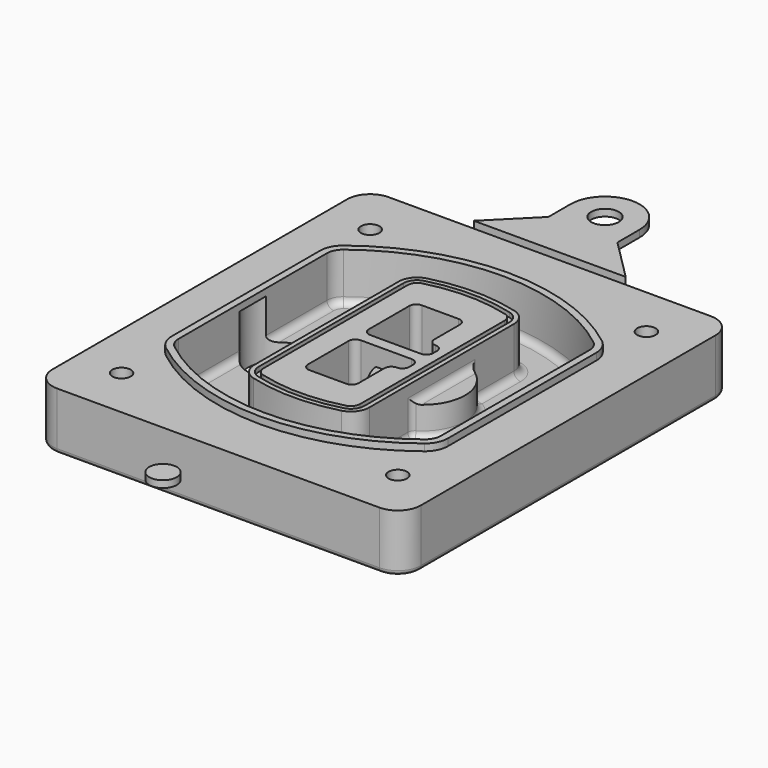
from build123d import *

# Parameters (mm, degrees)
F0_R      = 4
F1_DEPTH  = 25
F2_DEPTH  = 3
F3_DEPTH  = 18
F5_DEPTH  = 21
F6_DEPTH  = 2
F8_DEPTH  = 20
F9_DEPTH  = 16
F10_DEPTH = 25
F7_R      = 6
F7_R_2    = 4
F11_DEPTH = 6
F13_DEPTH = 9
F14_R     = 3
F15_R     = 2
F16_R     = 6
F17_DEPTH = 3


with BuildPart() as f1:
    # F0 (on Top) → F1 (new body)
    with BuildSketch(Plane.XY):
        with BuildLine():
            ThreePointArc((-80, -80), (-77.0710678119, -87.0710678119), (-70, -90))
            Line((-70, -90), (70, -90))
            ThreePointArc((70, -90), (77.0710678119, -87.0710678119), (80, -80))
            Line((80, -80), (80, 80))
            ThreePointArc((80, 80), (77.0710678119, 87.0710678119), (70, 90))
            Line((70, 90), (-70, 90))
            ThreePointArc((-70, 90), (-77.0710678119, 87.0710678119), (-80, 80))
            Line((-80, 80), (-80, -80))
        make_face()
        with Locations((-60, -67.5)):
            Circle(F0_R, mode=Mode.SUBTRACT)
        with Locations((60, -67.5)):
            Circle(F0_R, mode=Mode.SUBTRACT)
        with Locations((-60, 67.5)):
            Circle(F0_R, mode=Mode.SUBTRACT)
        with BuildLine():
            ThreePointArc((-64, 40.2934422872), (-62.5820384798, 46.4328484224), (-58.6153846154, 51.3286200352))
            ThreePointArc((-58.6153846154, 51.3286200352), (0, 71.5), (58.6153846154, 51.3286200352))
            ThreePointArc((58.6153846154, 51.3286200352), (62.5820384798, 46.4328484224), (64, 40.2934422872))
            Line((64, 40.2934422872), (64, -40.2934422872))
            ThreePointArc((64, -40.2934422872), (62.5820384798, -46.4328484224), (58.6153846154, -51.3286200352))
            ThreePointArc((58.6153846154, -51.3286200352), (0, -71.5), (-58.6153846154, -51.3286200352))
            ThreePointArc((-58.6153846154, -51.3286200352), (-62.5820384798, -46.4328484224), (-64, -40.2934422872))
            Line((-64, -40.2934422872), (-64, 40.2934422872))
        make_face(mode=Mode.SUBTRACT)
        with Locations((60, 67.5)):
            Circle(F0_R, mode=Mode.SUBTRACT)
        with BuildLine():
            ThreePointArc((58.6153846154, 51.3286200352), (0, 71.5), (-58.6153846154, 51.3286200352))
            ThreePointArc((-58.6153846154, 51.3286200352), (-62.5820384798, 46.4328484224), (-64, 40.2934422872))
            Line((-64, 40.2934422872), (-64, -40.2934422872))
            ThreePointArc((-64, -40.2934422872), (-62.5820384798, -46.4328484224), (-58.6153846154, -51.3286200352))
            ThreePointArc((-58.6153846154, -51.3286200352), (0, -71.5), (58.6153846154, -51.3286200352))
            ThreePointArc((58.6153846154, -51.3286200352), (62.5820384798, -46.4328484224), (64, -40.2934422872))
            Line((64, -40.2934422872), (64, 40.2934422872))
            ThreePointArc((64, 40.2934422872), (62.5820384798, 46.4328484224), (58.6153846154, 51.3286200352))
        make_face()
        with BuildLine():
            Line((-60, -40.2934422872), (-60, 40.2934422872))
            ThreePointArc((-60, 40.2934422872), (-58.9871703427, 44.6787323838), (-56.1538461538, 48.1757121072))
            ThreePointArc((-56.1538461538, 48.1757121072), (0, 67.5), (56.1538461538, 48.1757121072))
            ThreePointArc((56.1538461538, 48.1757121072), (58.9871703427, 44.6787323838), (60, 40.2934422872))
            Line((60, 40.2934422872), (60, -40.2934422872))
            ThreePointArc((60, -40.2934422872), (58.9871703427, -44.6787323838), (56.1538461538, -48.1757121072))
            ThreePointArc((56.1538461538, -48.1757121072), (0, -67.5), (-56.1538461538, -48.1757121072))
            ThreePointArc((-56.1538461538, -48.1757121072), (-58.9871703427, -44.6787323838), (-60, -40.2934422872))
        make_face(mode=Mode.SUBTRACT)
        with BuildLine():
            ThreePointArc((-56.1538461538, 48.1757121072), (-58.9871703427, 44.6787323838), (-60, 40.2934422872))
            Line((-60, 40.2934422872), (-60, -40.2934422872))
            ThreePointArc((-60, -40.2934422872), (-58.9871703427, -44.6787323838), (-56.1538461538, -48.1757121072))
            ThreePointArc((-56.1538461538, -48.1757121072), (0, -67.5), (56.1538461538, -48.1757121072))
            ThreePointArc((56.1538461538, -48.1757121072), (58.9871703427, -44.6787323838), (60, -40.2934422872))
            Line((60, -40.2934422872), (60, 40.2934422872))
            ThreePointArc((60, 40.2934422872), (58.9871703427, 44.6787323838), (56.1538461538, 48.1757121072))
            ThreePointArc((56.1538461538, 48.1757121072), (0, 67.5), (-56.1538461538, 48.1757121072))
        make_face()
        with BuildLine():
            ThreePointArc((54.3076923077, 45.8110311612), (56.2910192399, 43.3631453548), (57, 40.2934422872))
            Line((57, 40.2934422872), (57, -40.2934422872))
            ThreePointArc((57, -40.2934422872), (56.2910192399, -43.3631453548), (54.3076923077, -45.8110311612))
            ThreePointArc((54.3076923077, -45.8110311612), (0, -64.5), (-54.3076923077, -45.8110311612))
            ThreePointArc((-54.3076923077, -45.8110311612), (-56.2910192399, -43.3631453548), (-57, -40.2934422872))
            Line((-57, -40.2934422872), (-57, 40.2934422872))
            ThreePointArc((-57, 40.2934422872), (-56.2910192399, 43.3631453548), (-54.3076923077, 45.8110311612))
            ThreePointArc((-54.3076923077, 45.8110311612), (0, 64.5), (54.3076923077, 45.8110311612))
        make_face(mode=Mode.SUBTRACT)
        with BuildLine():
            Line((57, -40.2934422872), (57, 40.2934422872))
            ThreePointArc((57, 40.2934422872), (56.2910192399, 43.3631453548), (54.3076923077, 45.8110311612))
            ThreePointArc((54.3076923077, 45.8110311612), (0, 64.5), (-54.3076923077, 45.8110311612))
            ThreePointArc((-54.3076923077, 45.8110311612), (-56.2910192399, 43.3631453548), (-57, 40.2934422872))
            Line((-57, 40.2934422872), (-57, -40.2934422872))
            ThreePointArc((-57, -40.2934422872), (-56.2910192399, -43.3631453548), (-54.3076923077, -45.8110311612))
            ThreePointArc((-54.3076923077, -45.8110311612), (0, -64.5), (54.3076923077, -45.8110311612))
            ThreePointArc((54.3076923077, -45.8110311612), (56.2910192399, -43.3631453548), (57, -40.2934422872))
        make_face()
    extrude(amount=-F1_DEPTH)

    # F0 (on Top) → F2 (join)
    with BuildSketch(Plane.XY):
        with BuildLine():
            ThreePointArc((-56.1538461538, 48.1757121072), (-58.9871703427, 44.6787323838), (-60, 40.2934422872))
            Line((-60, 40.2934422872), (-60, -40.2934422872))
            ThreePointArc((-60, -40.2934422872), (-58.9871703427, -44.6787323838), (-56.1538461538, -48.1757121072))
            ThreePointArc((-56.1538461538, -48.1757121072), (0, -67.5), (56.1538461538, -48.1757121072))
            ThreePointArc((56.1538461538, -48.1757121072), (58.9871703427, -44.6787323838), (60, -40.2934422872))
            Line((60, -40.2934422872), (60, 40.2934422872))
            ThreePointArc((60, 40.2934422872), (58.9871703427, 44.6787323838), (56.1538461538, 48.1757121072))
            ThreePointArc((56.1538461538, 48.1757121072), (0, 67.5), (-56.1538461538, 48.1757121072))
        make_face()
        with BuildLine():
            ThreePointArc((54.3076923077, 45.8110311612), (56.2910192399, 43.3631453548), (57, 40.2934422872))
            Line((57, 40.2934422872), (57, -40.2934422872))
            ThreePointArc((57, -40.2934422872), (56.2910192399, -43.3631453548), (54.3076923077, -45.8110311612))
            ThreePointArc((54.3076923077, -45.8110311612), (0, -64.5), (-54.3076923077, -45.8110311612))
            ThreePointArc((-54.3076923077, -45.8110311612), (-56.2910192399, -43.3631453548), (-57, -40.2934422872))
            Line((-57, -40.2934422872), (-57, 40.2934422872))
            ThreePointArc((-57, 40.2934422872), (-56.2910192399, 43.3631453548), (-54.3076923077, 45.8110311612))
            ThreePointArc((-54.3076923077, 45.8110311612), (0, 64.5), (54.3076923077, 45.8110311612))
        make_face(mode=Mode.SUBTRACT)
    extrude(amount=F2_DEPTH)

    # F0 (on Top) → F3 (cut)
    with BuildSketch(Plane.XY):
        with BuildLine():
            Line((57, -40.2934422872), (57, 40.2934422872))
            ThreePointArc((57, 40.2934422872), (56.2910192399, 43.3631453548), (54.3076923077, 45.8110311612))
            ThreePointArc((54.3076923077, 45.8110311612), (0, 64.5), (-54.3076923077, 45.8110311612))
            ThreePointArc((-54.3076923077, 45.8110311612), (-56.2910192399, 43.3631453548), (-57, 40.2934422872))
            Line((-57, 40.2934422872), (-57, -40.2934422872))
            ThreePointArc((-57, -40.2934422872), (-56.2910192399, -43.3631453548), (-54.3076923077, -45.8110311612))
            ThreePointArc((-54.3076923077, -45.8110311612), (0, -64.5), (54.3076923077, -45.8110311612))
            ThreePointArc((54.3076923077, -45.8110311612), (56.2910192399, -43.3631453548), (57, -40.2934422872))
        make_face()
    extrude(amount=-F3_DEPTH, mode=Mode.SUBTRACT)

    # F4 (on face) → F5 (join, through all)
    with BuildSketch(Plane.XY.offset(3)):
        with BuildLine():
            ThreePointArc((-25, -39.2465276821), (-23.3511545998, -44.1109737193), (-19.0842911877, -46.9702398883))
            ThreePointArc((-19.0842911877, -46.9702398883), (0, -49.5), (19.0842911877, -46.9702398883))
            ThreePointArc((19.0842911877, -46.9702398883), (23.3511545998, -44.1109737193), (25, -39.2465276821))
            Line((25, -39.2465276821), (25, 39.2465276821))
            ThreePointArc((25, 39.2465276821), (23.3511545998, 44.1109737193), (19.0842911877, 46.9702398883))
            ThreePointArc((19.0842911877, 46.9702398883), (0, 49.5), (-19.0842911877, 46.9702398883))
            ThreePointArc((-19.0842911877, 46.9702398883), (-23.3511545998, 44.1109737193), (-25, 39.2465276821))
            Line((-25, 39.2465276821), (-25, -39.2465276821))
        make_face()
        with BuildLine():
            ThreePointArc((18.5632183908, 45.0393118368), (21.7633659499, 42.89486221), (23, 39.2465276821))
            Line((23, 39.2465276821), (23, -39.2465276821))
            ThreePointArc((23, -39.2465276821), (21.7633659499, -42.89486221), (18.5632183908, -45.0393118368))
            ThreePointArc((18.5632183908, -45.0393118368), (0, -47.5), (-18.5632183908, -45.0393118368))
            ThreePointArc((-18.5632183908, -45.0393118368), (-21.7633659499, -42.89486221), (-23, -39.2465276821))
            Line((-23, -39.2465276821), (-23, 39.2465276821))
            ThreePointArc((-23, 39.2465276821), (-21.7633659499, 42.89486221), (-18.5632183908, 45.0393118368))
            ThreePointArc((-18.5632183908, 45.0393118368), (0, 47.5), (18.5632183908, 45.0393118368))
        make_face(mode=Mode.SUBTRACT)
        with BuildLine():
            Line((23, -39.2465276821), (23, 39.2465276821))
            ThreePointArc((23, 39.2465276821), (21.7633659499, 42.89486221), (18.5632183908, 45.0393118368))
            ThreePointArc((18.5632183908, 45.0393118368), (0, 47.5), (-18.5632183908, 45.0393118368))
            ThreePointArc((-18.5632183908, 45.0393118368), (-21.7633659499, 42.89486221), (-23, 39.2465276821))
            Line((-23, 39.2465276821), (-23, -39.2465276821))
            ThreePointArc((-23, -39.2465276821), (-21.7633659499, -42.89486221), (-18.5632183908, -45.0393118368))
            ThreePointArc((-18.5632183908, -45.0393118368), (0, -47.5), (18.5632183908, -45.0393118368))
            ThreePointArc((18.5632183908, -45.0393118368), (21.7633659499, -42.89486221), (23, -39.2465276821))
        make_face()
        with BuildLine():
            ThreePointArc((18.0421455939, 43.1083837852), (20.1755772999, 41.6787507007), (21, 39.2465276821))
            Line((21, 39.2465276821), (21, -39.2465276821))
            ThreePointArc((21, -39.2465276821), (20.1755772999, -41.6787507007), (18.0421455939, -43.1083837852))
            ThreePointArc((18.0421455939, -43.1083837852), (0, -45.5), (-18.0421455939, -43.1083837852))
            ThreePointArc((-18.0421455939, -43.1083837852), (-20.1755772999, -41.6787507007), (-21, -39.2465276821))
            Line((-21, -39.2465276821), (-21, 39.2465276821))
            ThreePointArc((-21, 39.2465276821), (-20.1755772999, 41.6787507007), (-18.0421455939, 43.1083837852))
            ThreePointArc((-18.0421455939, 43.1083837852), (0, 45.5), (18.0421455939, 43.1083837852))
        make_face(mode=Mode.SUBTRACT)
        with BuildLine():
            Line((21, -39.2465276821), (21, 39.2465276821))
            ThreePointArc((21, 39.2465276821), (20.1755772999, 41.6787507007), (18.0421455939, 43.1083837852))
            ThreePointArc((18.0421455939, 43.1083837852), (0, 45.5), (-18.0421455939, 43.1083837852))
            ThreePointArc((-18.0421455939, 43.1083837852), (-20.1755772999, 41.6787507007), (-21, 39.2465276821))
            Line((-21, 39.2465276821), (-21, -39.2465276821))
            ThreePointArc((-21, -39.2465276821), (-20.1755772999, -41.6787507007), (-18.0421455939, -43.1083837852))
            ThreePointArc((-18.0421455939, -43.1083837852), (0, -45.5), (18.0421455939, -43.1083837852))
            ThreePointArc((18.0421455939, -43.1083837852), (20.1755772999, -41.6787507007), (21, -39.2465276821))
        make_face()
        with BuildLine():
            Line((-8, -2.5), (14, -2.5))
            ThreePointArc((14, -2.5), (16.1213203436, -3.3786796564), (17, -5.5))
            Line((17, -5.5), (17, -7.5))
            ThreePointArc((17, -7.5), (16.1213203436, -9.6213203436), (14, -10.5))
            ThreePointArc((14, -10.5), (11.8786796564, -11.3786796564), (11, -13.5))
            Line((11, -13.5), (11, -27.5))
            ThreePointArc((11, -27.5), (10.1213203436, -29.6213203436), (8, -30.5))
            Line((8, -30.5), (-8, -30.5))
            ThreePointArc((-8, -30.5), (-10.1213203436, -29.6213203436), (-11, -27.5))
            Line((-11, -27.5), (-11, -5.5))
            ThreePointArc((-11, -5.5), (-10.1213203436, -3.3786796564), (-8, -2.5))
        make_face(mode=Mode.SUBTRACT)
        with BuildLine():
            ThreePointArc((-8, 2.5), (-10.1213203436, 3.3786796564), (-11, 5.5))
            Line((-11, 5.5), (-11, 27.5))
            ThreePointArc((-11, 27.5), (-10.1213203436, 29.6213203436), (-8, 30.5))
            Line((-8, 30.5), (8, 30.5))
            ThreePointArc((8, 30.5), (10.1213203436, 29.6213203436), (11, 27.5))
            Line((11, 27.5), (11, 13.5))
            ThreePointArc((11, 13.5), (11.8786796564, 11.3786796564), (14, 10.5))
            ThreePointArc((14, 10.5), (16.1213203436, 9.6213203436), (17, 7.5))
            Line((17, 7.5), (17, 5.5))
            ThreePointArc((17, 5.5), (16.1213203436, 3.3786796564), (14, 2.5))
            Line((14, 2.5), (-8, 2.5))
        make_face(mode=Mode.SUBTRACT)
    extrude(amount=-F5_DEPTH)

    # F4 (on face) → F6 (cut)
    with BuildSketch(Plane.XY.offset(3)):
        with BuildLine():
            Line((23, -39.2465276821), (23, 39.2465276821))
            ThreePointArc((23, 39.2465276821), (21.7633659499, 42.89486221), (18.5632183908, 45.0393118368))
            ThreePointArc((18.5632183908, 45.0393118368), (0, 47.5), (-18.5632183908, 45.0393118368))
            ThreePointArc((-18.5632183908, 45.0393118368), (-21.7633659499, 42.89486221), (-23, 39.2465276821))
            Line((-23, 39.2465276821), (-23, -39.2465276821))
            ThreePointArc((-23, -39.2465276821), (-21.7633659499, -42.89486221), (-18.5632183908, -45.0393118368))
            ThreePointArc((-18.5632183908, -45.0393118368), (0, -47.5), (18.5632183908, -45.0393118368))
            ThreePointArc((18.5632183908, -45.0393118368), (21.7633659499, -42.89486221), (23, -39.2465276821))
        make_face()
        with BuildLine():
            ThreePointArc((18.0421455939, 43.1083837852), (20.1755772999, 41.6787507007), (21, 39.2465276821))
            Line((21, 39.2465276821), (21, -39.2465276821))
            ThreePointArc((21, -39.2465276821), (20.1755772999, -41.6787507007), (18.0421455939, -43.1083837852))
            ThreePointArc((18.0421455939, -43.1083837852), (0, -45.5), (-18.0421455939, -43.1083837852))
            ThreePointArc((-18.0421455939, -43.1083837852), (-20.1755772999, -41.6787507007), (-21, -39.2465276821))
            Line((-21, -39.2465276821), (-21, 39.2465276821))
            ThreePointArc((-21, 39.2465276821), (-20.1755772999, 41.6787507007), (-18.0421455939, 43.1083837852))
            ThreePointArc((-18.0421455939, 43.1083837852), (0, 45.5), (18.0421455939, 43.1083837852))
        make_face(mode=Mode.SUBTRACT)
    extrude(amount=-F6_DEPTH, mode=Mode.SUBTRACT)

    # F7 (on face) → F8 (join)
    with BuildSketch(Plane(origin=(0, 0, -25), x_dir=(1, 0, 0), z_dir=(0, 0, -1))):
        with BuildLine():
            ThreePointArc((3.28842436, 0), (16.7567035675, 13.4682792075), (30.224982775, 0))
            Line((30.224982775, 0), (35.224982775, 0))
            ThreePointArc((35.224982775, 0), (16.7567035675, 18.4682792075), (-1.71157564, 0))
            Line((-1.71157564, 0), (3.28842436, 0))
        make_face()
        with BuildLine():
            Line((3.28842436, 0), (30.224982775, 0))
            ThreePointArc((30.224982775, 0), (16.7567035675, 13.4682792075), (3.28842436, 0))
        make_face()
        with BuildLine():
            ThreePointArc((3.28842436, 0), (16.7567035675, -13.4682792075), (30.224982775, 0))
            Line((30.224982775, 0), (3.28842436, 0))
        make_face()
        with BuildLine():
            Line((35.224982775, 0), (30.224982775, 0))
            ThreePointArc((30.224982775, 0), (16.7567035675, -13.4682792075), (3.28842436, 0))
            Line((3.28842436, 0), (-1.71157564, 0))
            ThreePointArc((-1.71157564, 0), (16.7567035675, -18.4682792075), (35.224982775, 0))
        make_face()
    extrude(amount=-F8_DEPTH)

    # F7 (on face) → F9 (cut)
    with BuildSketch(Plane(origin=(0, 0, -25), x_dir=(1, 0, 0), z_dir=(0, 0, -1))):
        with BuildLine():
            Line((3.28842436, 0), (30.224982775, 0))
            ThreePointArc((30.224982775, 0), (16.7567035675, 13.4682792075), (3.28842436, 0))
        make_face()
        with BuildLine():
            ThreePointArc((3.28842436, 0), (16.7567035675, -13.4682792075), (30.224982775, 0))
            Line((30.224982775, 0), (3.28842436, 0))
        make_face()
    extrude(amount=-F9_DEPTH, mode=Mode.SUBTRACT)

    # F7 (on face) → F10 (cut)
    with BuildSketch(Plane(origin=(0, 0, -25), x_dir=(1, 0, 0), z_dir=(0, 0, -1))):
        with BuildLine():
            Line((-59.0318229325, 0), (-32.0952645175, 0))
            ThreePointArc((-32.0952645175, 0), (-45.563543725, 13.4682792075), (-59.0318229325, 0))
        make_face()
        with BuildLine():
            ThreePointArc((-59.0318229325, 0), (-45.563543725, -13.4682792075), (-32.0952645175, 0))
            Line((-32.0952645175, 0), (-59.0318229325, 0))
        make_face()
    extrude(amount=-F10_DEPTH, mode=Mode.SUBTRACT)

    # F7 (on face) → F11 (cut)
    with BuildSketch(Plane(origin=(0, 0, -25), x_dir=(1, 0, 0), z_dir=(0, 0, -1))):
        with Locations((60, -67.5)):
            Circle(F7_R)
        with Locations((60, -67.5)):
            Circle(F7_R_2, mode=Mode.SUBTRACT)
        with Locations((60, -67.5)):
            Circle(F7_R)
        with Locations((60, -67.5)):
            Circle(F7_R_2, mode=Mode.SUBTRACT)
        with Locations((-60, -67.5)):
            Circle(F7_R)
        with Locations((-60, -67.5)):
            Circle(F7_R_2, mode=Mode.SUBTRACT)
        with Locations((-60, -67.5)):
            Circle(F7_R)
        with Locations((-60, -67.5)):
            Circle(F7_R_2, mode=Mode.SUBTRACT)
        with Locations((-60, 67.5)):
            Circle(F7_R)
        with Locations((-60, 67.5)):
            Circle(F7_R_2, mode=Mode.SUBTRACT)
        with Locations((-60, 67.5)):
            Circle(F7_R)
        with Locations((-60, 67.5)):
            Circle(F7_R_2, mode=Mode.SUBTRACT)
        with Locations((60, 67.5)):
            Circle(F7_R)
        with Locations((60, 67.5)):
            Circle(F7_R_2, mode=Mode.SUBTRACT)
        with Locations((60, 67.5)):
            Circle(F7_R)
        with Locations((60, 67.5)):
            Circle(F7_R_2, mode=Mode.SUBTRACT)
    extrude(amount=-F11_DEPTH, mode=Mode.SUBTRACT)

    # F12 (on face) → F13 (cut, through all)
    with BuildSketch(Plane(origin=(0, 0, -9), x_dir=(1, 0, 0), z_dir=(0, 0, -1))):
        with BuildLine():
            Line((11, 13.5), (11, 17.5481537753))
            ThreePointArc((11, 17.5481537753), (2.5696536419, 11.8239143813), (-1.5415842455, 2.5))
            Line((-1.5415842455, 2.5), (3.5224848595, 2.5))
            ThreePointArc((3.5224848595, 2.5), (6.1857188154, 8.3455872281), (11.2536447004, 12.2927168648))
            ThreePointArc((11.2536447004, 12.2927168648), (11.0640958889, 12.8831798879), (11, 13.5))
        make_face()
        with BuildLine():
            ThreePointArc((11.2536447004, -12.2927168648), (6.1857188154, -8.3455872281), (3.5224848595, -2.5))
            Line((3.5224848595, -2.5), (-1.5415842455, -2.5))
            ThreePointArc((-1.5415842455, -2.5), (2.5696536419, -11.8239143813), (11, -17.5481537753))
            Line((11, -17.5481537753), (11, -13.5))
            ThreePointArc((11, -13.5), (11.0640958889, -12.8831798879), (11.2536447004, -12.2927168648))
        make_face()
        with BuildLine():
            ThreePointArc((11.2536447004, 12.2927168648), (6.1857188154, 8.3455872281), (3.5224848595, 2.5))
            Line((3.5224848595, 2.5), (14, 2.5))
            ThreePointArc((14, 2.5), (16.1213203436, 3.3786796564), (17, 5.5))
            Line((17, 5.5), (17, 7.5))
            ThreePointArc((17, 7.5), (16.1213203436, 9.6213203436), (14, 10.5))
            ThreePointArc((14, 10.5), (12.3601599782, 10.9878446101), (11.2536447004, 12.2927168648))
        make_face()
        with BuildLine():
            Line((14, -2.5), (3.5224848595, -2.5))
            ThreePointArc((3.5224848595, -2.5), (6.1857188154, -8.3455872281), (11.2536447004, -12.2927168648))
            ThreePointArc((11.2536447004, -12.2927168648), (12.3601599782, -10.9878446101), (14, -10.5))
            ThreePointArc((14, -10.5), (16.1213203436, -9.6213203436), (17, -7.5))
            Line((17, -7.5), (17, -5.5))
            ThreePointArc((17, -5.5), (16.1213203436, -3.3786796564), (14, -2.5))
        make_face()
    extrude(amount=F13_DEPTH, mode=Mode.SUBTRACT)

    # F14
    f14_edges = [f1.edges().sort_by_distance(p)[0] for p in [
        (-57, -23.703476, -18),
        (-57, 23.703476, -18),
        (25, 0, -5),
        (25, 16.526506, -11.5),
        (25, -16.526506, -11.5),
        (25, -27.886517, -18),
        (35.224983, 0, -18),
    ]]
    fillet(f14_edges, radius=F14_R)

    # F15
    f15_edges = [f1.edges().sort_by_distance(p)[0] for p in [
        (0, -90, -25),
    ]]
    fillet(f15_edges, radius=F15_R)


with BuildPart() as f17:
    # F16 (on face) → F17 (new body, through all)
    with BuildSketch(Plane.XY):
        with BuildLine():
            Line((-15, 108), (-33, 90))
            Line((-33, 90), (33, 90))
            Line((33, 90), (15, 108))
            Line((15, 108), (15, 120))
            ThreePointArc((15, 120), (0, 135), (-15, 120))
            Line((-15, 120), (-15, 108))
        make_face()
        with Locations((0, 120)):
            Circle(F16_R, mode=Mode.SUBTRACT)
    extrude(amount=F17_DEPTH)


with BuildPart() as f17b:
    # F16 (on face) → F17, piece 2 (new body, through all)
    with BuildSketch(Plane.XY):
        with Locations((0, -120)):
            Circle(F16_R)
    extrude(amount=F17_DEPTH)


solid = Compound([f1.part, f17.part, f17b.part])
